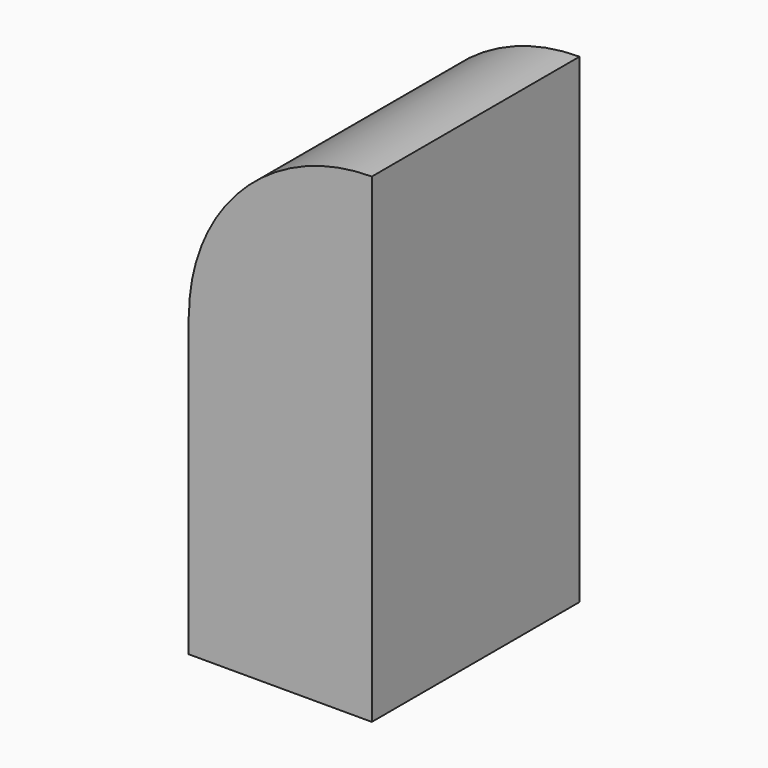
from build123d import *

# Parameters (mm, degrees)
F1_DEPTH = 50.8


with BuildPart() as f1:
    # F0 (on Front) → F1 (new body)
    with BuildSketch(Plane.XZ):
        with BuildLine():
            ThreePointArc((0, 35.790812), (-25.307926, 25.307926), (-35.790812, 0))
            Line((-35.790812, 0), (0, 0))
            Line((0, 0), (0, 35.790812))
        make_face()
        Polygon((0, 0), (-35.790812, 0), (-35.877675, 0), (-35.877675, -58.146574), (0, -58.146574), align=None)
    extrude(amount=F1_DEPTH)


solid = f1.part
